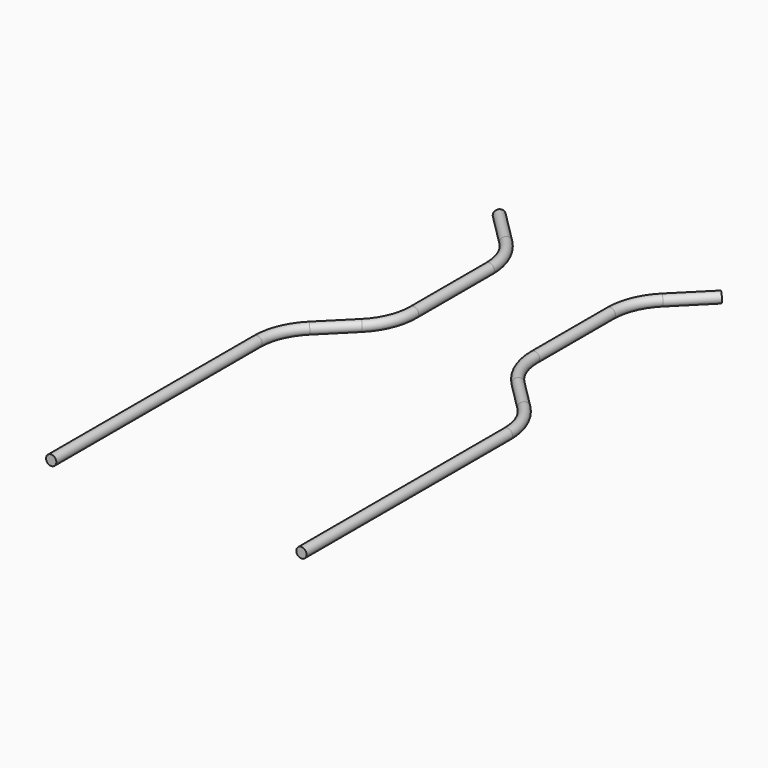
from build123d import *

# Parameters (mm, degrees)
F2_R = 12.7


with BuildPart() as f3:
    # F3: sweep along a path in F0
    with BuildLine(Plane.XY) as f3_path:
        Line((-310, 0), (-310, 637.867965644))
        ThreePointArc((-310, 637.867965644), (-298.5819298767, 695.2704804988), (-266.066017178, 743.933982822))
        Line((-266.066017178, 743.933982822), (-193.933982822, 816.066017178))
        ThreePointArc((-193.933982822, 816.066017178), (-161.4180701233, 864.7295195012), (-150, 922.132034356))
        Line((-150, 922.132034356), (-150, 1156.8679656441))
        ThreePointArc((-150, 1156.8679656441), (-161.4180701233, 1214.2704804988), (-193.933982822, 1262.933982822))
        Line((-193.933982822, 1262.933982822), (-275, 1344))
    # F2 (on line) → F3 (sweep)
    with BuildSketch(Plane(origin=(0, 0, 0), x_dir=(-1, 0, 0), z_dir=(0, 1, 0))):
        with Locations((310, 0)):
            Circle(F2_R)
    sweep(path=f3_path.line)


with BuildPart() as f4_1:
    # F4: instance of F3
    add(f3.part.mirror(Plane.YZ))


solid = Compound([f3.part, f4_1.part])
